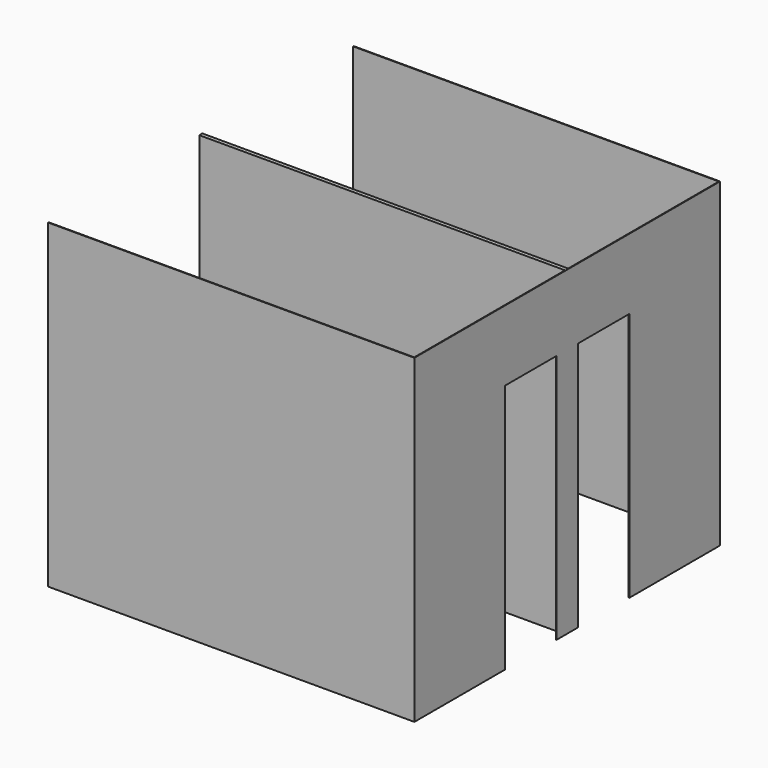
from build123d import *

# Parameters (mm, degrees)
F1_DEPTH = 2500
F2_W     = 500
F2_H     = 1950
F3_DEPTH = 300
F4_W     = 101
F4_H     = 2500
F5_DEPTH = 460
F7_DEPTH = 4630


with BuildPart() as f1:
    # F0 (on Top) → F1 (new body)
    with BuildSketch(Plane.XY):
        Polygon((5348.059315, 5858.212916), (8302.059315, 5858.212916), (8302.059315, 7338.212916), (8302.059315, 7358.212916), (8302.059315, 8838.212916), (5348.059315, 8838.212916), (5348.059315, 8833.212852), (8297.059252, 8833.212852), (8297.059252, 7363.21298), (5343.059252, 7363.21298), (5343.059252, 7333.212852), (8297.059252, 7333.212852), (8297.059252, 5863.21298), (5348.059315, 5863.21298), align=None)
    extrude(amount=F1_DEPTH)

    # F2 (on face) → F3 (cut)
    with BuildSketch(Plane(origin=(8297.059252, 0, 0), x_dir=(0, -1, 0), z_dir=(-1, 0, 0))):
        with Locations((-7703.21298, 975)):
            Rectangle(F2_W, F2_H)
        with Locations((-6993.212852, 975)):
            Rectangle(F2_W, F2_H)
    extrude(amount=-F3_DEPTH, mode=Mode.SUBTRACT)

    # F4 (on face) → F5 (cut)
    with BuildSketch(Plane.XZ.offset(-7333.212852)):
        with Locations((5393.559252, 1250)):
            Rectangle(F4_W, F4_H)
    extrude(amount=-F5_DEPTH, mode=Mode.SUBTRACT)

    # F6 (on face) → F7 (cut)
    with BuildSketch(Plane.XZ.offset(-5858.212916)):
        Polygon((5444.059252, 0), (5444.059252, 2500), (5444.059252, 2649.641752), (5038.322449, 2649.641752), (5038.322449, -210.067511), (5444.059252, -140.881062), align=None)
    extrude(amount=-F7_DEPTH, mode=Mode.SUBTRACT)


solid = f1.part
